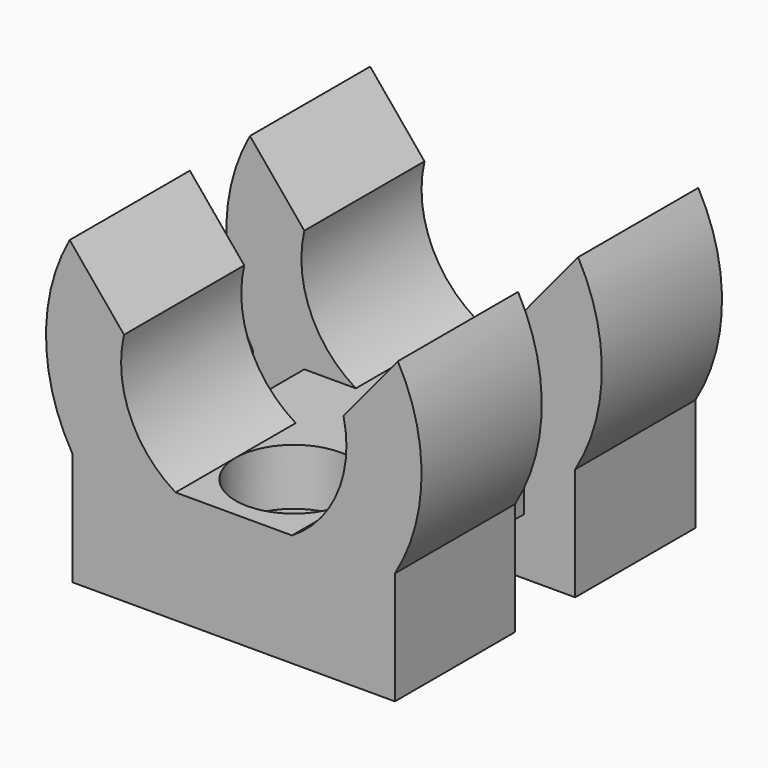
from build123d import *

# Parameters (mm, degrees)
PAD_DEPTH         = 10
SKETCH001_W       = 10
SKETCH001_H       = 4
SKETCH001_W_2     = 3
POCKET_DEPTH      = 18.580627
POCKET_DEPTH_BACK = -1.421373
SKETCH002_R       = 1.6
POCKET001_DEPTH   = 6.001
SKETCH003_R       = 3.1
POCKET002_DEPTH   = 3
SKETCH004_W       = 2.736464
SKETCH004_H       = 4
POCKET003_DEPTH   = 5


with BuildPart() as part:
    # Sketch → Pad (new body, symmetric)
    with BuildSketch(Plane.XZ):
        with BuildLine():
            ThreePointArc((-8.737986, 10), (-9.998746, 4.978781), (-8.579627, 0))
            Line((-8.579627, 0), (-8.579627, -6))
            Line((-8.579627, -6), (8.579627, -6))
            Line((8.579627, -6), (8.579627, 0))
            ThreePointArc((8.579627, 0), (9.998746, 4.978781), (8.737986, 10))
            Line((5.843163, 6.5), (8.737986, 10))
            ThreePointArc((3.1, 0), (5.527888, 2.804212), (5.843163, 6.5))
            Line((-3.1, 0), (3.1, 0))
            ThreePointArc((-5.843163, 6.5), (-5.527888, 2.804212), (-3.1, 0))
            Line((-5.843163, 6.5), (-8.737986, 10))
        make_face()
    extrude(amount=PAD_DEPTH, both=True)

    # Sketch001 (on Face5 of Pad) → Pocket (cut, two sides)
    with BuildSketch(Plane(origin=(8.579627, 0, 0), x_dir=(0, 0, 1), z_dir=(1, 0, 0))) as pocket_sk:
        with Locations((5, 0)):
            Rectangle(SKETCH001_W, SKETCH001_H)
        with Locations((-4.5, 0)):
            Rectangle(SKETCH001_W_2, SKETCH001_H)
    extrude(amount=-POCKET_DEPTH, mode=Mode.SUBTRACT)
    extrude(pocket_sk.sketch, amount=-POCKET_DEPTH_BACK, mode=Mode.SUBTRACT)

    # Sketch002 (on Face12 of Pocket) → Pocket001 (cut, through all)
    with BuildSketch(Plane(origin=(0, 0, 0), x_dir=(-1, 0, 0), z_dir=(0, 0, 1))):
        with Locations((0, 6)):
            Circle(SKETCH002_R)
        with Locations((0, -6)):
            Circle(SKETCH002_R)
    extrude(amount=-POCKET001_DEPTH, mode=Mode.SUBTRACT)

    # Sketch003 (on Face30 of Pocket001) → Pocket002 (cut)
    with BuildSketch(Plane(origin=(0, 0, 0), x_dir=(-1, 0, 0), z_dir=(0, 0, 1))):
        with Locations((0, 6)):
            Circle(SKETCH003_R)
        with Locations((0, -6)):
            Circle(SKETCH003_R)
    extrude(amount=-POCKET002_DEPTH, mode=Mode.SUBTRACT)

    # Sketch004 (on Face13 of Pocket002) → Pocket003 (cut)
    with BuildSketch(Plane(origin=(0, 0, 0), x_dir=(-1, 0, 0), z_dir=(0, 0, 1))):
        with Locations((-7.211395, 0)):
            Rectangle(SKETCH004_W, SKETCH004_H)
        with Locations((7.211395, 0)):
            Rectangle(SKETCH004_W, SKETCH004_H)
    extrude(amount=-POCKET003_DEPTH, mode=Mode.SUBTRACT)


solid = part.part
